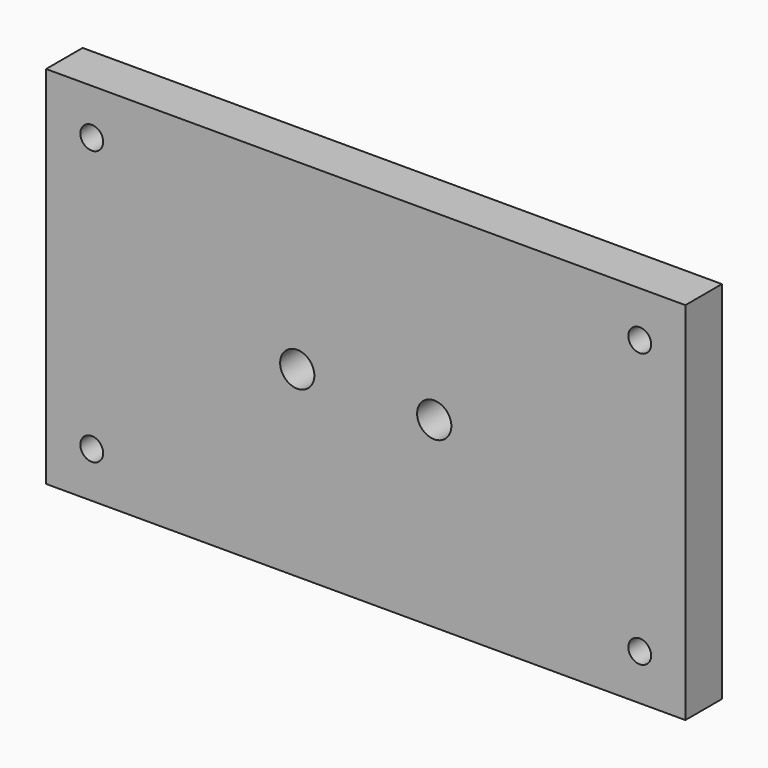
from build123d import *

# Parameters (mm, degrees)
F0_W     = 177.8
F0_H     = 101.6
F1_DEPTH = 12.7
F2_R     = 3.175
F2_R_2   = 4.7625
F3_DEPTH = 12.701


with BuildPart() as f1:
    # F0 (on Front) → F1 (new body)
    with BuildSketch(Plane.XZ):
        Rectangle(F0_W, F0_H)
    extrude(amount=F1_DEPTH)

    # F2 (on face) → F3 (cut, through all)
    with BuildSketch(Plane.XZ.offset(12.7)):
        with Locations((-76.2, 38.1)):
            Circle(F2_R)
        with Locations((76.2, 38.1)):
            Circle(F2_R)
        with Locations((-76.2, -38.1)):
            Circle(F2_R)
        with Locations((76.2, -38.1)):
            Circle(F2_R)
        with Locations((-19.05, 0)):
            Circle(F2_R_2)
        with Locations((19.05, 0)):
            Circle(F2_R_2)
    extrude(amount=-F3_DEPTH, mode=Mode.SUBTRACT)


solid = f1.part
